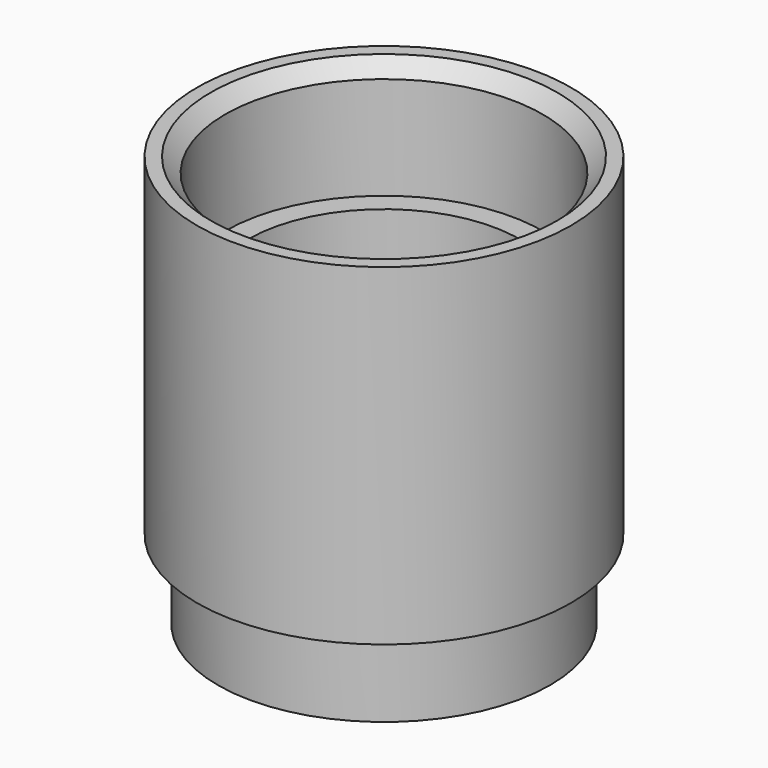
from build123d import *

# Parameters (mm, degrees)
F2_SIZE = 1.016


with BuildPart() as f1:
    # F0 (on Front) → F1 (revolve)
    with BuildSketch(Plane.XZ):
        Polygon((11.1125, 25.053447), (11.1125, 23.840199), (11.1125, 16.855199), (9.525, 16.855199), (9.525, 3.266199), (11.1125, 3.266199), (11.1125, -3.718801), (11.6205, -3.718801), (11.6205, 1.812447), (13.081, 1.812447), (13.081, 25.053447), align=None)
    revolve(axis=Axis((0, 0, -1.874024), (0, 0, -1)))

    # F2
    f2_edges = [f1.edges().sort_by_distance(p)[0] for p in [
        (-11.1125, 0, 25.053447),
    ]]
    chamfer(f2_edges, length=F2_SIZE)


solid = f1.part
